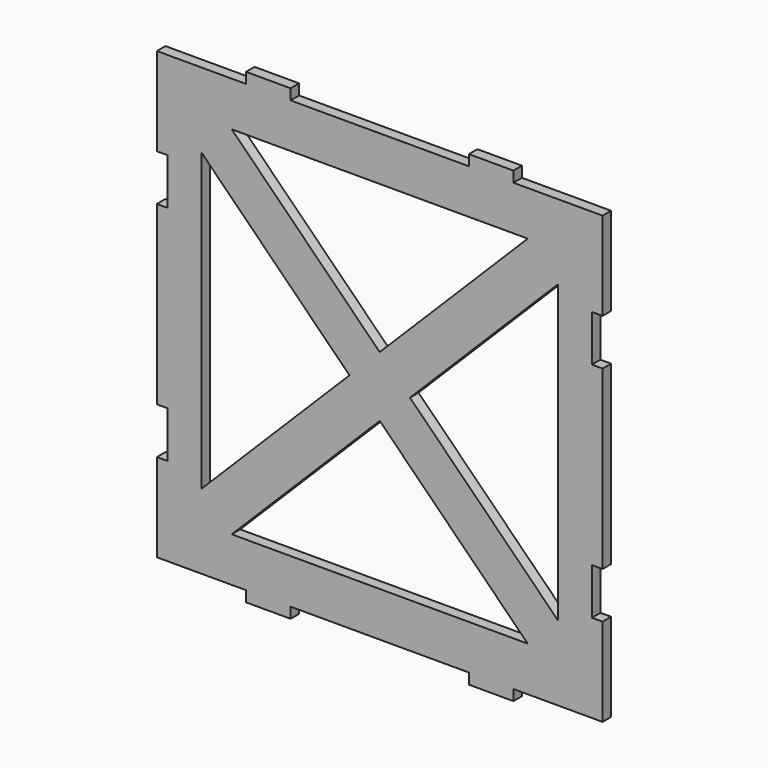
from build123d import *

# Parameters (mm, degrees)
F0_W     = 1.524
F0_H     = 12.573
F0_H_2   = 25.146
F0_W_2   = 6.35
F0_H_3   = 1.524
F1_DEPTH = 1.524


with BuildPart() as f1:
    # F0 (on Front) → F1 (new body)
    with BuildSketch(Plane.XZ):
        Polygon((30.226, 19.177), (30.226, 31.75), (19.05, 31.75), (12.7, 31.75), (-12.7, 31.75), (-19.05, 31.75), (-30.226, 31.75), (-30.226, 19.177), (-30.226, 12.573), (-30.226, -12.573), (-30.226, -19.177), (-30.226, -31.75), (-19.05, -31.75), (-12.7, -31.75), (12.7, -31.75), (19.05, -31.75), (30.226, -31.75), (30.226, -19.177), (30.226, -12.573), (30.226, 12.573), align=None)
        Polygon((21.0894770619, 25.4), (25.4, 25.4), (25.4, 21.0894770619), (25.4, -21.0894770619), (25.4, -25.4), (21.0894770619, -25.4), (-21.0894770619, -25.4), (-25.4, -25.4), (-25.4, -21.0894770619), (-25.4, 21.0894770619), (-25.4, 25.4), (-21.0894770619, 25.4), align=None, mode=Mode.SUBTRACT)
        with Locations((-30.988, 25.4635)):
            Rectangle(F0_W, F0_H)
        with Locations((-30.988, 0)):
            Rectangle(F0_W, F0_H_2)
        with Locations((-30.988, -25.4635)):
            Rectangle(F0_W, F0_H)
        with Locations((30.988, -25.4635)):
            Rectangle(F0_W, F0_H)
        with Locations((30.988, 0)):
            Rectangle(F0_W, F0_H_2)
        with Locations((30.988, 25.4635)):
            Rectangle(F0_W, F0_H)
        with Locations((15.875, -32.512)):
            Rectangle(F0_W_2, F0_H_3)
        with Locations((-15.875, -32.512)):
            Rectangle(F0_W_2, F0_H_3)
        Polygon((0, 4.3105229381), (-21.0894770619, 25.4), (-25.4, 25.4), (-25.4, 21.0894770619), (-4.3105229381, 0), align=None)
        Polygon((4.3105229381, 0), (0, 4.3105229381), (-4.3105229381, 0), (0, -4.3105229381), align=None)
        Polygon((25.4, 21.0894770619), (25.4, 25.4), (21.0894770619, 25.4), (0, 4.3105229381), (4.3105229381, 0), align=None)
        Polygon((25.4, -25.4), (25.4, -21.0894770619), (4.3105229381, 0), (0, -4.3105229381), (21.0894770619, -25.4), align=None)
        Polygon((0, -4.3105229381), (-4.3105229381, 0), (-25.4, -21.0894770619), (-25.4, -25.4), (-21.0894770619, -25.4), align=None)
        with Locations((-15.875, 32.512)):
            Rectangle(F0_W_2, F0_H_3)
        with Locations((15.875, 32.512)):
            Rectangle(F0_W_2, F0_H_3)
    extrude(amount=F1_DEPTH)


solid = f1.part
